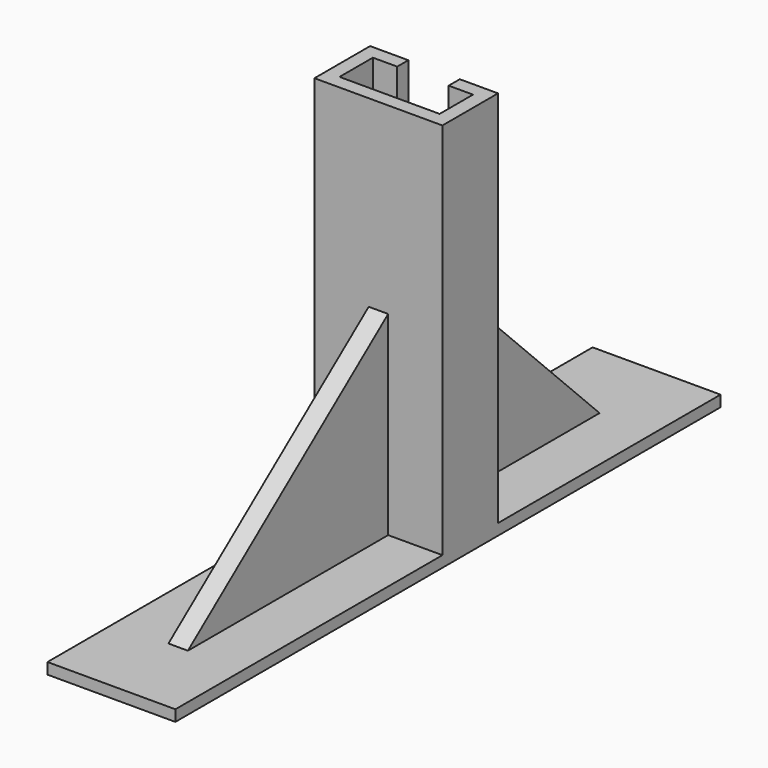
from build123d import *

# Parameters (mm, degrees)
F0_W      = 46
F0_H      = 80
F1_DEPTH  = 25
F4_DEPTH  = 60
F5_DEPTH  = 46
F8_DEPTH  = 3.5
F10_DEPTH = 0.4


with BuildPart() as f1:
    # F0 (on Front) → F1 (new body)
    with BuildSketch(Plane.XZ):
        with Locations((-12.4670048244, -31.5567021806)):
            Rectangle(F0_W, F0_H)
    extrude(amount=F1_DEPTH)

    # F3 (on face) → F4 (join)
    with BuildSketch(Plane.XY.offset(8.4432978194)):
        Polygon((10.5329951756, -25), (10.5329951756, 0), (-3.2170048244, 0), (-3.2170048244, -5), (5.5329951756, -5), (5.5329951756, -20), (-30.4670048244, -20), (-30.4670048244, -5), (-21.7170048244, -5), (-21.7170048244, 0), (-35.4670048244, 0), (-35.4670048244, -25), align=None)
    extrude(amount=F4_DEPTH)

    # F2 (on face) → F5 (join)
    with BuildSketch(Plane(origin=(-35.4670048244, 0, 0), x_dir=(0, -1, 0), z_dir=(-1, 0, 0))):
        Polygon((-100, -71.5567021806), (0, -71.5567021806), (0, -67.5567021806), (-70, -67.5567021806), (-100, -67.5567021806), align=None)
        Polygon((25, -67.5567021806), (25, -71.5567021806), (145, -71.5567021806), (145, -67.5567021806), (115, -67.5567021806), align=None)
    extrude(amount=-F5_DEPTH)

    # F7 (on offset) → F8 (join, symmetric)
    with BuildSketch(Plane(origin=(-12.4670048244, 0, 0), x_dir=(0, -1, 0), z_dir=(-1, 0, 0))):
        Polygon((0, -67.5567021806), (0, 2.4432978194), (-70, -67.5567021806), align=None)
        Polygon((25, 2.4432978194), (25, -67.5567021806), (115, -67.5567021806), align=None)
    extrude(amount=F8_DEPTH, both=True)

    # F10 (add, through all): a face of the model
    f10_faces = [f1.faces().sort_by_distance(p)[0] for p in [
        (-12.4670048244, -11.0375494071, 8.4432978194),
    ]]
    extrude(f10_faces, amount=F10_DEPTH)


solid = f1.part
